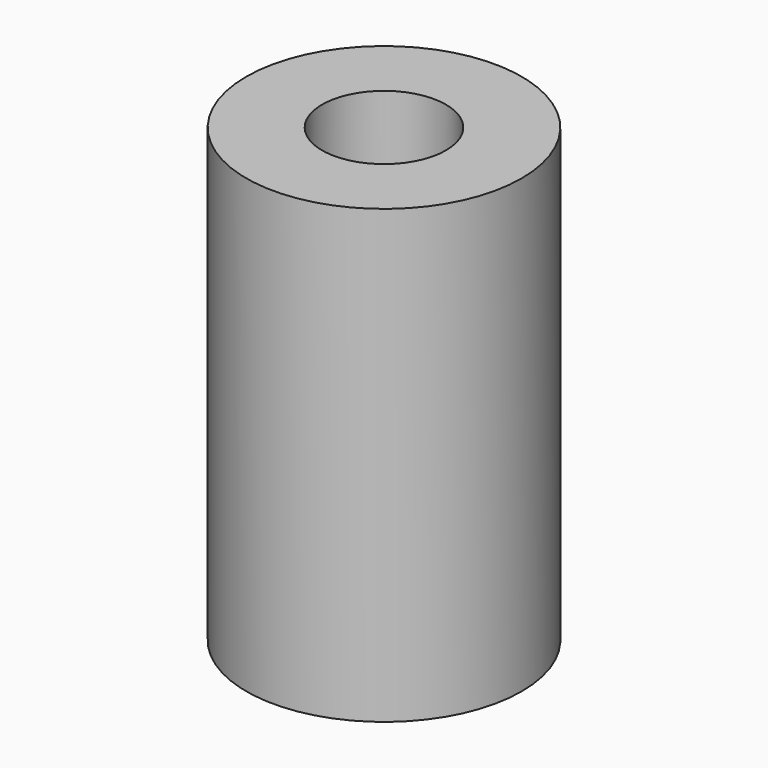
from build123d import *

# Parameters (mm, degrees)
SKETCH_R   = 5
SKETCH_R_2 = 2.25
PAD_DEPTH  = 16.4


with BuildPart() as part:
    # Sketch → Pad (new body)
    with BuildSketch(Plane.XY):
        Circle(SKETCH_R)
        Circle(SKETCH_R_2, mode=Mode.SUBTRACT)
    extrude(amount=PAD_DEPTH)


solid = part.part
